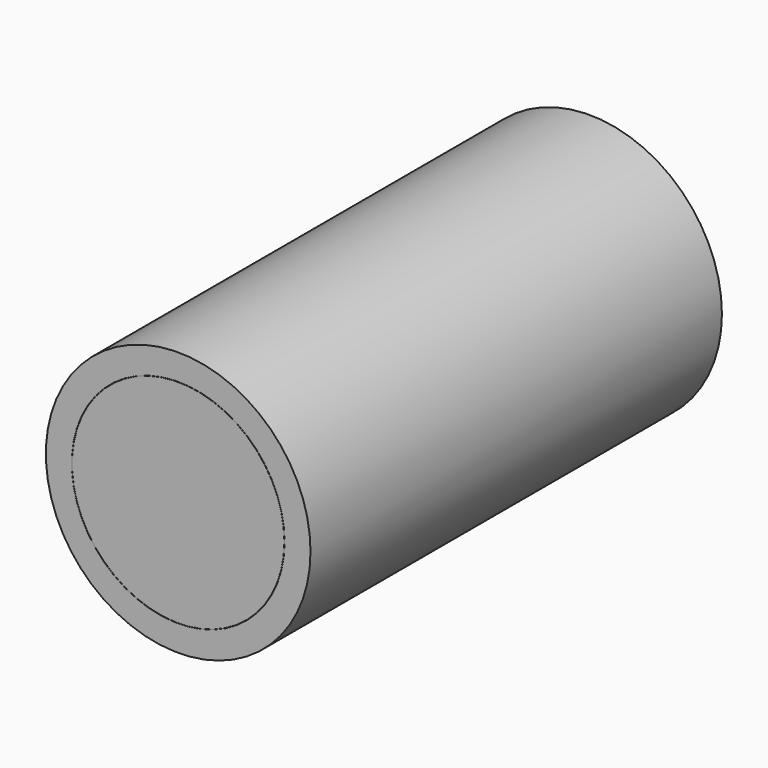
from build123d import *

# Parameters (mm, degrees)
F0_R     = 32.678074
F1_DEPTH = 63.5
F2_R     = 26.273546
F3_DEPTH = 127
F4_R     = 26.227305
F5_DEPTH = 63.5


with BuildPart() as f1:
    # F0 (on Front) → F1 (new body, symmetric)
    with BuildSketch(Plane.XZ):
        Circle(F0_R)
    extrude(amount=F1_DEPTH, both=True)

    # F2 (on Front) → F3 (cut, symmetric)
    with BuildSketch(Plane.XZ):
        Circle(F2_R)
    extrude(amount=F3_DEPTH, both=True, mode=Mode.SUBTRACT)


with BuildPart() as f5:
    # F4 (on Front) → F5 (new body, symmetric)
    with BuildSketch(Plane.XZ):
        Circle(F4_R)
    extrude(amount=F5_DEPTH, both=True)


solid = Compound([f1.part, f5.part])
